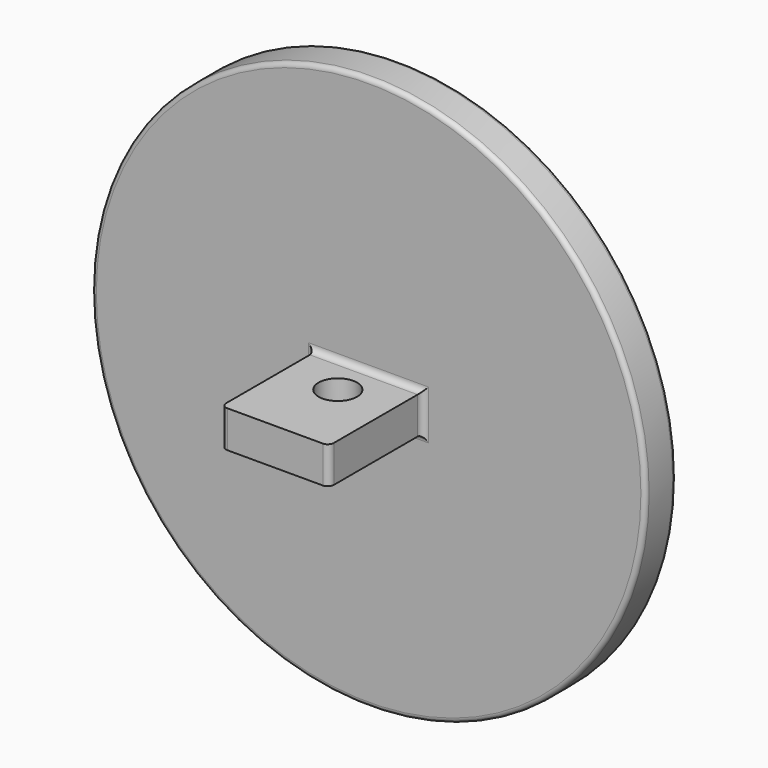
from build123d import *

# Parameters (mm, degrees)
F0_R     = 22.86
F1_DEPTH = 3.175
F2_W     = 8.89
F2_H     = 3.048
F3_DEPTH = 9.652
F4_R     = 1.5875
F5_DEPTH = 24.385
F6_R     = 0.508
F7_R     = 0.381


with BuildPart() as f1:
    # F0 (on Front) → F1 (new body)
    with BuildSketch(Plane.XZ):
        Circle(F0_R)
    extrude(amount=F1_DEPTH)

    # F2 (on face) → F3 (join)
    with BuildSketch(Plane.XZ.offset(3.175)):
        Rectangle(F2_W, F2_H)
    extrude(amount=F3_DEPTH)

    # F4 (on face) → F5 (cut, through all)
    with BuildSketch(Plane(origin=(0, 0, -1.524), x_dir=(1, 0, 0), z_dir=(0, 0, -1))):
        with Locations((0, 6.35)):
            Circle(F4_R)
    extrude(amount=-F5_DEPTH, mode=Mode.SUBTRACT)

    # F6
    f6_edges = [f1.edges().sort_by_distance(p)[0] for p in [
        (-4.445, -12.827, 0),
        (4.445, -12.827, 0),
        (0, -3.175, -1.524),
        (-4.445, -3.175, 0),
        (4.445, -3.175, 0),
        (0, -3.175, 1.524),
    ]]
    fillet(f6_edges, radius=F6_R)

    # F7
    f7_edges = [f1.edges().sort_by_distance(p)[0] for p in [
        (-22.86, -3.175, 0),
        (-22.86, 0, 0),
    ]]
    fillet(f7_edges, radius=F7_R)


solid = f1.part
